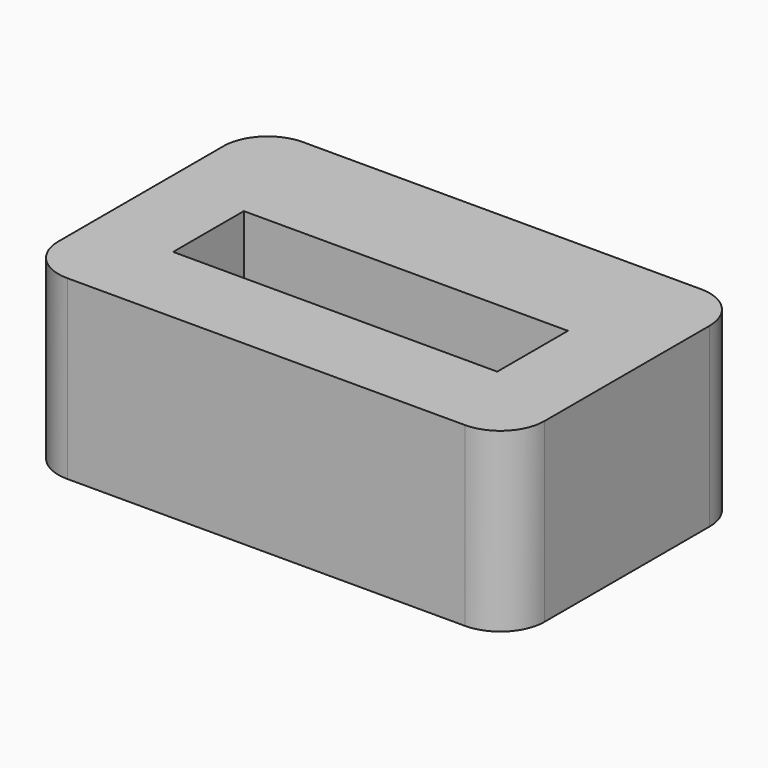
from build123d import *

# Parameters (mm, degrees)
F0_W     = 16.5
F0_H     = 10
F0_W_2   = 11
F0_H_2   = 3
F1_DEPTH = 6
F2_R     = 1.5
F0_W_3   = 5.5
F0_H_3   = 1.5
F3_DEPTH = 0.6


with BuildPart() as f1:
    # F0 (on Top) → F1 (new body)
    with BuildSketch(Plane.XY):
        with Locations((0, 0.571325)):
            Rectangle(F0_W, F0_H)
        Rectangle(F0_W_2, F0_H_2, mode=Mode.SUBTRACT)
    extrude(amount=F1_DEPTH)

    # F2
    f2_edges = [f1.edges().sort_by_distance(p)[0] for p in [
        (-8.25, 5.571325, 3),
        (8.25, 5.571325, 3),
        (8.25, -4.428675, 3),
        (-8.25, -4.428675, 3),
    ]]
    fillet(f2_edges, radius=F2_R)

    # F0 (on Top) → F3 (join)
    with BuildSketch(Plane.XY):
        Rectangle(F0_W_2, F0_H_2)
        Rectangle(F0_W_3, F0_H_3, mode=Mode.SUBTRACT)
    extrude(amount=F3_DEPTH)


solid = f1.part
